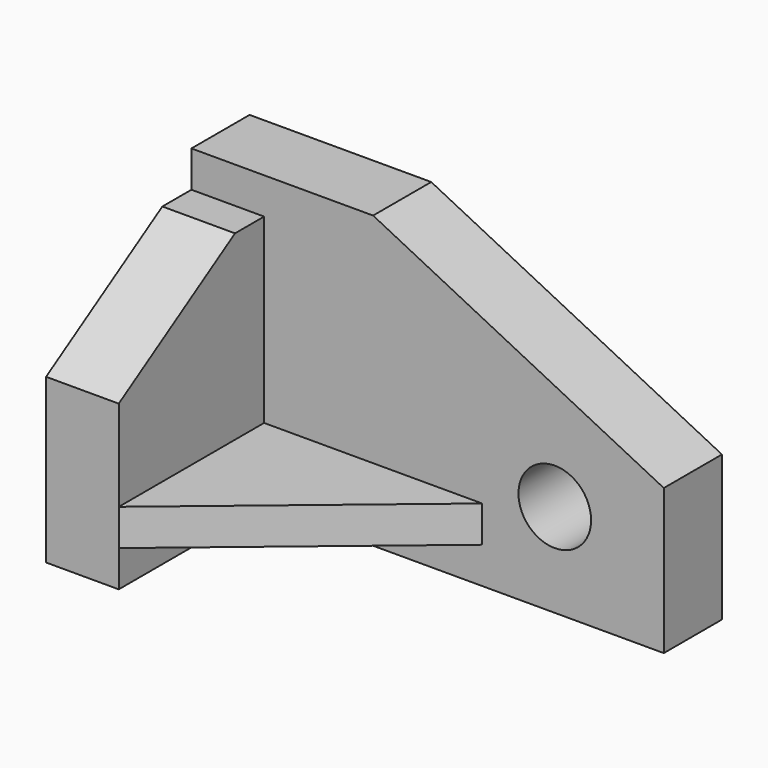
from build123d import *

# Parameters (mm, degrees)
F0_W     = 30
F0_H     = 5
F1_DEPTH = 35
F0_R     = 5
F2_DEPTH = 10
F0_W_2   = 10
F0_H_2   = 15
F3_DEPTH = 35
F5_DEPTH = 10.001
F7_DEPTH = 10.001


with BuildPart() as f1:
    # F0 (on Front) → F1 (new body)
    with BuildSketch(Plane.XZ):
        Polygon((-32.5, -20), (-22.5, -20), (-22.5, -15), (-22.5, -10), (-22.5, 0), (-32.5, 0), align=None)
        with Locations((-7.5, -12.5)):
            Rectangle(F0_W, F0_H)
    extrude(amount=F1_DEPTH)

    # F0 (on Front) → F2 (join)
    with BuildSketch(Plane.XZ):
        Polygon((32.5, 0), (-7.5, 20), (-32.5, 20), (-32.5, 15), (-22.5, 15), (-22.5, 0), (-22.5, -10), (7.5, -10), (7.5, -15), (-22.5, -15), (-22.5, -20), (32.5, -20), align=None)
        with Locations((17.5, -7.159092)):
            Circle(F0_R, mode=Mode.SUBTRACT)
    extrude(amount=F2_DEPTH)

    # F0 (on Front) → F3 (join)
    with BuildSketch(Plane.XZ):
        with Locations((-27.5, 7.5)):
            Rectangle(F0_W_2, F0_H_2)
    extrude(amount=F3_DEPTH)

    # F4 (on face) → F5 (cut, through all)
    with BuildSketch(Plane.XY.offset(-10)):
        Polygon((7.5, -10), (-22.5, -35), (7.5, -35), align=None)
    extrude(amount=-F5_DEPTH, mode=Mode.SUBTRACT)

    # F6 (on face) → F7 (cut, through all)
    with BuildSketch(Plane.YZ.offset(-22.5)):
        Polygon((-35, 15), (-35, 2.5), (-15, 15), align=None)
    extrude(amount=-F7_DEPTH, mode=Mode.SUBTRACT)


solid = f1.part
